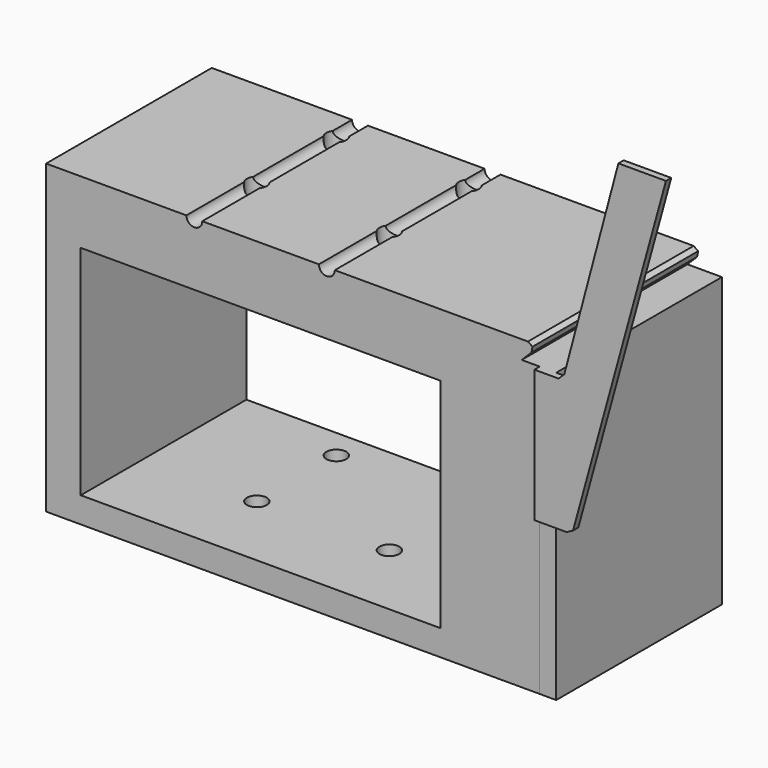
from build123d import *

# Parameters (mm, degrees)
F3_DEPTH  = 31.28
F5_DEPTH  = 2
F6_SCALE  = 1.998334
F7_R      = 6
F8_DEPTH  = 184.9633219355
F9_W      = 297.9456263797
F9_H      = 0.016
F10_DEPTH = 300.0708966475


with BuildPart() as f3:
    # F2 (on Front) → F3 (new body, symmetric)
    with BuildSketch(Plane.XZ):
        with BuildLine():
            ThreePointArc((-4.891757, 20.258623), (-7.293262, 17.857118), (-9.694767, 20.258623))
            Line((-9.694767, 20.258623), (-44.916938, 20.258623))
            ThreePointArc((-44.916938, 20.258623), (-47.318453, 17.857108), (-49.719968, 20.258623))
            Line((-49.719968, 20.258623), (-92.096637, 20.258623))
            Line((-92.096637, 20.258623), (-92.096637, -72.299639))
            Line((-92.096637, -72.299639), (62.000374, -72.299639))
            Line((62.000374, -72.299639), (62.000374, 14.755173))
            Line((62.000374, 14.755173), (51.569185, 14.755173))
            Line((51.569185, 14.755173), (54.51037, 17.696359))
            Line((54.51037, 17.696359), (54.83573, 19.332065))
            Line((54.83573, 19.332065), (53.449044, 20.258623))
            Line((53.449044, 20.258623), (-4.891757, 20.258623))
        make_face()
        Polygon((21.975165, -64.544755), (-76.586879, -64.544755), (-81.6271267767, -64.544755), (-81.6271267767, -59.504508937), (-81.6271267767, -41.1476865411), (-81.6271267767, 1.246654), (-76.586879, 1.246654), (1.777753, 1.246654), (26.978322, 1.246654), (26.978322, -19.5164), (26.978322, -41.029946), (26.978322, -64.544755), align=None, mode=Mode.SUBTRACT)
    extrude(amount=F3_DEPTH, both=True)

    # F4 (on face) → F5 (join)
    with BuildSketch(Plane.XZ.offset(31.28)):
        Polygon((96.744902432, 77.8603926301), (82.3790878057, 77.8603926301), (66.0480544983, 16.4687833792), (64.3344447017, 14.755173), (57.000374, 14.755173), (57.000374, -25.270039), (62.000374, -25.270039), (66.7268559337, -25.270039), (68.6720386147, -24.2501627654), align=None)
    extrude(amount=F5_DEPTH)


with BuildPart() as f3_1:
    # F6: moved
    add(f3.part.scale(F6_SCALE))

    # F7 (on face) → F8 (cut, through all)
    with BuildSketch(Plane.XY.offset(40.4834951341)):
        with Locations((-94.4298410028, 44.50788752)):
            Circle(F7_R)
        with Locations((-14.4298410028, 44.50788752)):
            Circle(F7_R)
        with Locations((-14.4298410028, -15.49211248)):
            Circle(F7_R)
        with Locations((-94.4298410028, -15.49211248)):
            Circle(F7_R)
    extrude(amount=-F8_DEPTH, mode=Mode.SUBTRACT)

    # F9 (on face) → F10 (cut, through all)
    with BuildSketch(Plane(origin=(0, 0, -144.4788268014), x_dir=(1, 0, 0), z_dir=(0, 0, -1))):
        with Locations((-35.0670278129, 62.49988752)):
            Rectangle(F9_W, F9_H)
    extrude(amount=-F10_DEPTH, mode=Mode.SUBTRACT)


solid = f3_1.part
